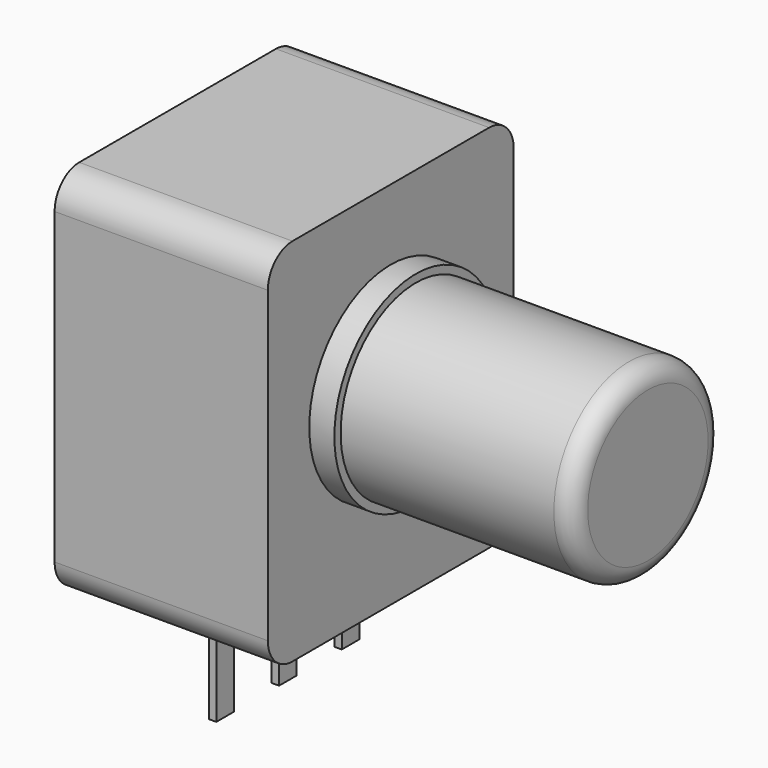
from build123d import *

# Parameters (mm, degrees)
SKETCH001_R       = 3.25
PAD001_DEPTH      = 0.8
SKETCH003_W       = 0.233334
SKETCH003_H       = 0.7
PAD002_DEPTH      = 9
PAD002_DEPTH_BACK = 3
SKETCH004_R       = 3
PAD003_DEPTH      = 7.4
FILLET_R          = 0.6
SKETCH_W          = 9.8
SKETCH_H          = 11.8
PAD_DEPTH         = 6.8
FILLET001_R       = 0.98


with BuildPart() as pad001:
    # Sketch001 → Pad001 (new body)
    with BuildSketch(Plane.YZ.offset(4.2)):
        with Locations((2.5, 6.5)):
            Circle(SKETCH001_R)
    extrude(amount=-PAD001_DEPTH)


with BuildPart() as pad002:
    # Sketch003 → Pad002 (new body, two sides)
    with BuildSketch(Plane(origin=(0, 0, 0), x_dir=(-1, 0, 0), z_dir=(0, 0, 1))) as pad002_sk:
        Rectangle(SKETCH003_W, SKETCH003_H)
        with Locations((0, -2.5)):
            Rectangle(SKETCH003_W, SKETCH003_H)
        with Locations((0, -5)):
            Rectangle(SKETCH003_W, SKETCH003_H)
    extrude(amount=PAD002_DEPTH)
    extrude(pad002_sk.sketch, amount=-PAD002_DEPTH_BACK)


with BuildPart() as fillet_body:
    # Sketch004 → Pad003 (new body)
    with BuildSketch(Plane.YZ.offset(4.2)):
        with Locations((2.5, 6.5)):
            Circle(SKETCH004_R)
    extrude(amount=PAD003_DEPTH)

    # Fillet
    fillet_edges = [fillet_body.edges().sort_by_distance(p)[0] for p in [
        (11.6, -0.5, 6.5),
    ]]
    fillet(fillet_edges, radius=FILLET_R)


with BuildPart() as fillet001:
    # Sketch → Pad (new body)
    with BuildSketch(Plane.YZ.offset(-3.4)):
        with Locations((2.5, 6.1)):
            Rectangle(SKETCH_W, SKETCH_H)
    extrude(amount=PAD_DEPTH)

    # Fillet001
    fillet001_edges = [fillet001.edges().sort_by_distance(p)[0] for p in [
        (0, -2.4, 12),
        (0, 7.4, 12),
        (0, -2.4, 0.2),
        (0, 7.4, 0.2),
    ]]
    fillet(fillet001_edges, radius=FILLET001_R)


solid = Compound([pad001.part, pad002.part, fillet_body.part, fillet001.part])
